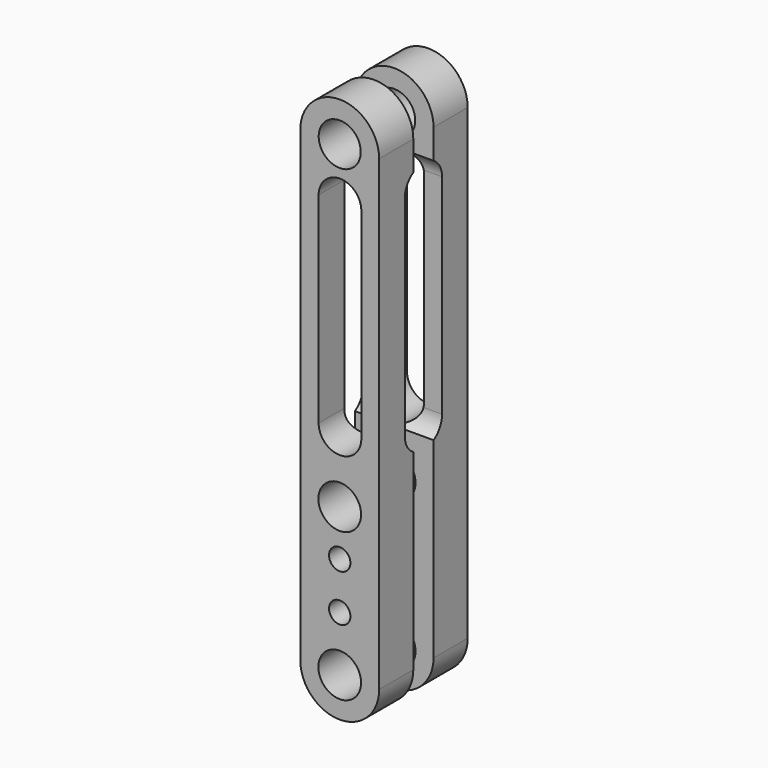
from build123d import *

# Parameters (mm, degrees)
F0_R      = 0.4064
F0_R_2    = 0.2032
F0_R_3    = 0.40005
F1_DEPTH  = 0.4064
F4_R      = 0.4064
F4_R_2    = 0.1905
F4_R_3    = 0.40005
F6_DEPTH  = 0.4064
F7_DEPTH  = 0.82042
F9_DEPTH  = 12.7
F10_DEPTH = 11.1252
F11_SCALE = 7.5


with BuildPart() as f1:
    # F0 (on Front) → F1 (new body, symmetric)
    with BuildSketch(Plane.XZ):
        with BuildLine():
            ThreePointArc((0.75, 8.89), (0, 9.64), (-0.75, 8.89))
            Line((-0.75, 8.89), (-0.75, 0))
            ThreePointArc((-0.75, 0), (0, -0.75), (0.75, 0))
            Line((0.75, 0), (0.75, 8.89))
        make_face()
        Circle(F0_R, mode=Mode.SUBTRACT)
        with Locations((0, 1.0459080804)):
            Circle(F0_R_2, mode=Mode.SUBTRACT)
        with Locations((0, 1.9385553896)):
            Circle(F0_R_2, mode=Mode.SUBTRACT)
        with Locations((0, 2.8171434533)):
            Circle(F0_R, mode=Mode.SUBTRACT)
        with BuildLine():
            ThreePointArc((-0.4015, 7.9086376354), (0.0049, 8.3150376354), (0.4113, 7.9086376354))
            Line((0.4113, 7.9086376354), (0.4113, 4.0879380144))
            ThreePointArc((0.4113, 4.0879380144), (0.0049, 3.6815380144), (-0.4015, 4.0879380144))
            Line((-0.4015, 4.0879380144), (-0.4015, 7.9086376354))
        make_face(mode=Mode.SUBTRACT)
        with Locations((0, 8.89)):
            Circle(F0_R_3, mode=Mode.SUBTRACT)
    extrude(amount=F1_DEPTH, both=True)

    # F8 (on offset) → F10 (cut)
    with BuildSketch(Plane.YZ.offset(-7.874)):
        with BuildLine():
            ThreePointArc((0.6010708166, 8.3836700556), (0.3192267269, 8.2616387189), (0.2032, 7.9772700556))
            Line((0.2032, 7.9772700556), (0.2032, 4.0006997783))
            ThreePointArc((0.2032, 4.0006997783), (0.3192267269, 3.716331115), (0.6010708166, 3.5942997783))
            Line((0.6010708166, 3.5942997783), (0.6010708166, 8.3836700556))
        make_face()
    extrude(amount=F10_DEPTH, mode=Mode.SUBTRACT)


with BuildPart() as f6:
    # F4 (on offset) → F6 (new body, symmetric)
    with BuildSketch(Plane(origin=(0, 1.2954, 0), x_dir=(-1, 0, 0), z_dir=(0, 1, 0))):
        with BuildLine():
            ThreePointArc((0.7483907909, 8.8905394077), (0, 9.6389301985), (-0.7483907909, 8.8905394077))
            Line((-0.7483907909, 8.8905394077), (-0.7483907909, 0.0005394077))
            ThreePointArc((-0.7483907909, 0.0005394077), (0, -0.7483909852), (0.7483907909, 0.0005394077))
            Line((0.7483907909, 0.0005394077), (0.7483907909, 8.8905394077))
        make_face()
        Circle(F4_R, mode=Mode.SUBTRACT)
        with Locations((0, 1.0457308963)):
            Circle(F4_R_2, mode=Mode.SUBTRACT)
        with Locations((0, 1.9394207047)):
            Circle(F4_R_2, mode=Mode.SUBTRACT)
        with Locations((0, 2.8215172576)):
            Circle(F4_R, mode=Mode.SUBTRACT)
        with BuildLine():
            ThreePointArc((-0.4064, 7.9030329362), (0, 8.3094329362), (0.4064, 7.9030329362))
            Line((0.4064, 7.9030329362), (0.4064, 4.0923212655))
            ThreePointArc((0.4064, 4.0923212655), (0, 3.6859212655), (-0.4064, 4.0923212655))
            Line((-0.4064, 4.0923212655), (-0.4064, 7.9030329362))
        make_face(mode=Mode.SUBTRACT)
        with Locations((0, 8.8905394077)):
            Circle(F4_R_3, mode=Mode.SUBTRACT)
        with Locations((0, 1.0457308963)):
            Circle(F4_R_2)
        with Locations((0, 1.9394207047)):
            Circle(F4_R_2)
    extrude(amount=F6_DEPTH, both=True)

    # F4 (on offset) → F7 (join)
    with BuildSketch(Plane(origin=(0, 1.2954, 0), x_dir=(-1, 0, 0), z_dir=(0, 1, 0))):
        with Locations((0, 1.0457308963)):
            Circle(F4_R_2)
        with Locations((0, 1.9394207047)):
            Circle(F4_R_2)
    extrude(amount=-F7_DEPTH)

    # F8 (on offset) → F9 (cut)
    with BuildSketch(Plane.YZ.offset(-7.874)):
        with BuildLine():
            Line((1.0922, 4.0006997783), (1.0922, 7.9772700556))
            ThreePointArc((1.0922, 7.9772700556), (0.9744198888, 8.2633875048), (0.689345412, 8.3836700556))
            Line((0.689345412, 8.3836700556), (0.689345412, 3.5942997783))
            ThreePointArc((0.689345412, 3.5942997783), (0.9744198888, 3.7145823291), (1.0922, 4.0006997783))
        make_face()
    extrude(amount=F9_DEPTH, mode=Mode.SUBTRACT)


with BuildPart() as f1_1:
    # F11: moved
    add(f1.part.scale(F11_SCALE))


with BuildPart() as f6_1:
    # F11: moved
    add(f6.part.scale(F11_SCALE))


solid = Compound([f1_1.part, f6_1.part])
